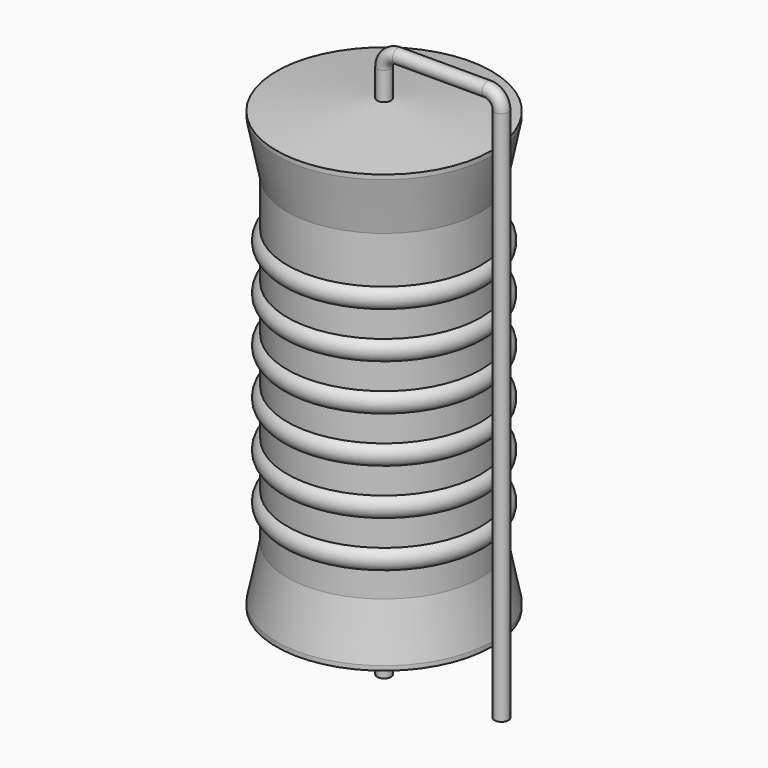
from build123d import *

# Parameters (mm, degrees)
SKETCH_R = 0.45


with BuildPart() as revolution:
    # Sketch002 → Revolution (revolve)
    with BuildSketch(Plane.XZ):
        Polygon((0, 0.1), (0, 29.95), (0.3375, 29.95), (6.985, 29.20375), (6.985, 28.91125), (6.2865, 25.4725), (6.2865, 4.5775), (6.985, 1.13875), (6.985, 0.84625), (0.3375, 0.1), align=None)
    revolve(axis=Axis((0, 0, 0), (0, 0, 1)))


with BuildPart() as sweep_body:
    # Sweep: sweep along a path in Sketch001
    with BuildLine(Plane.XZ) as sweep_path:
        Line((0, -3), (0, 31.75))
        ThreePointArc((0, 31.75), (0.2636, 32.386392), (0.899988, 32.65))
        Line((0.899988, 32.65), (6.72, 32.65))
        ThreePointArc((6.72, 32.65), (7.356396, 32.386396), (7.62, 31.75))
        Line((7.62, 31.75), (7.62, -3))
    # Sketch → Sweep (sweep)
    with BuildSketch(Plane.XY.offset(-2)):
        Circle(SKETCH_R)
    sweep(path=sweep_path.line)


with BuildPart() as obj1:
    # Sketch003 → Revolution001 (revolve)
    with BuildSketch(Plane.XZ):
        with BuildLine():
            Line((5.588, 24.0755), (5.588, 4.5775))
            Line((5.588, 4.5775), (6.0071, 4.5775))
            Line((6.0071, 4.5775), (6.0071, 6.1655))
            ThreePointArc((6.0071, 6.1655), (6.7056, 6.864), (6.0071, 7.5625))
            Line((6.0071, 7.5625), (6.0071, 9.1505))
            ThreePointArc((6.0071, 9.1505), (6.7056, 9.849), (6.0071, 10.5475))
            Line((6.0071, 10.5475), (6.0071, 12.1355))
            ThreePointArc((6.0071, 12.1355), (6.7056, 12.834), (6.0071, 13.5325))
            Line((6.0071, 13.5325), (6.0071, 15.1205))
            ThreePointArc((6.0071, 15.1205), (6.7056, 15.819), (6.0071, 16.5175))
            Line((6.0071, 16.5175), (6.0071, 18.1055))
            ThreePointArc((6.0071, 18.1055), (6.7056, 18.804), (6.0071, 19.5025))
            Line((6.0071, 19.5025), (6.0071, 21.0905))
            ThreePointArc((6.0071, 21.0905), (6.7056, 21.789), (6.0071, 22.4875))
            Line((6.0071, 24.0755), (6.0071, 22.4875))
            Line((5.588, 24.0755), (6.0071, 24.0755))
        make_face()
    revolve(axis=Axis((0, 0, 0), (0, 0, 1)))

    # obj1: union Revolution, Sweep body
    add(revolution.part)
    add(sweep_body.part)


solid = obj1.part
